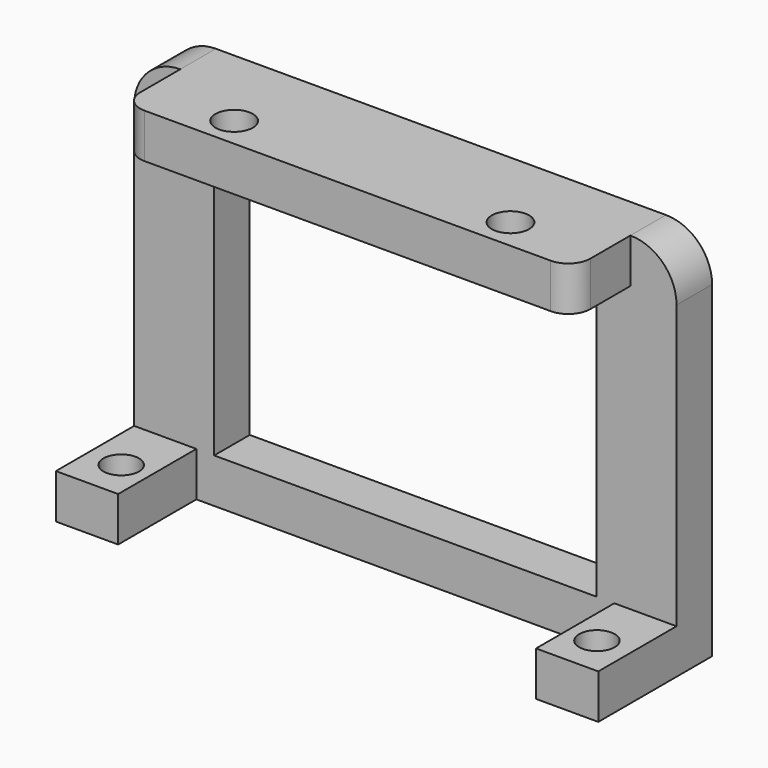
from build123d import *

# Parameters (mm, degrees)
EXTRUDE010_DEPTH = 5
SKETCH010_R      = 2
EXTRUDE009_DEPTH = 5
SKETCH012_R      = 2.1
EXTRUDE011_DEPTH = 5


with BuildPart() as extrude010:
    # Sketch011 (on Face6 of Extrude009) → Extrude010 (new body)
    with BuildSketch(Plane(origin=(0, 64.406042, 20.6), x_dir=(-1, 0, 0), z_dir=(0, 1, 0))):
        with BuildLine():
            Line((-18.188271, 0), (-18.188271, 36.810456))
            ThreePointArc((-12.998727, 42), (-16.668289, 40.480018), (-18.188271, 36.810456))
            Line((-12.998727, 42), (37.622185, 42))
            ThreePointArc((42.811729, 36.810456), (41.291746, 40.480018), (37.622185, 42))
            Line((42.811729, 0), (42.811729, 36.810456))
            Line((-18.188271, 0), (42.811729, 0))
        make_face()
        with BuildLine():
            Line((-9.188271, 5), (-9.188271, 33.276052))
            ThreePointArc((-5.464323, 37), (-8.097552, 35.909281), (-9.188271, 33.276052))
            Line((-5.464323, 37), (30.08778, 37))
            ThreePointArc((33.811729, 33.276052), (32.721009, 35.909281), (30.08778, 37))
            Line((33.811729, 33.276052), (33.811729, 5))
            Line((-9.188271, 5), (33.811729, 5))
        make_face(mode=Mode.SUBTRACT)
    extrude(amount=-EXTRUDE010_DEPTH)


with BuildPart() as extrude009:
    # Sketch010 → Extrude009 (new body)
    with BuildSketch(Plane.XY):
        Polygon((11.188271, 48.406042), (11.188271, 59.406042), (-35.811729, 59.406042), (-35.811729, 48.406042), (-42.811729, 48.406042), (-42.811729, 64.406042), (18.188271, 64.406042), (18.188271, 48.406042), align=None)
        with Locations((-39.061729, 52.906042)):
            Circle(SKETCH010_R, mode=Mode.SUBTRACT)
        with Locations((14.438271, 52.906042)):
            Circle(SKETCH010_R, mode=Mode.SUBTRACT)
    extrude(amount=EXTRUDE009_DEPTH)


with BuildPart() as extrude009_1:
    # Extrude009 placement: moved
    add(extrude009.part.moved(Location((0, 0, 20.6))))


with BuildPart() as pcb_holder_fusion:
    # Sketch012 (on Face3 of Extrude010) → Extrude011 (new body)
    with BuildSketch(Plane.XY.offset(62.6)):
        with BuildLine():
            Line((-37.622185, 64.406042), (-37.622185, 58.771772))
            ThreePointArc((-37.622185, 58.771772), (-36.898048, 57.023553), (-35.149829, 56.299416))
            Line((-35.149829, 56.299416), (10.526371, 56.299416))
            ThreePointArc((10.526371, 56.299416), (12.274591, 57.023553), (12.998727, 58.771772))
            Line((12.998727, 64.406042), (12.998727, 58.771772))
            Line((-37.622185, 64.406042), (12.998727, 64.406042))
        make_face()
        with Locations((-27.801273, 59.699416)):
            Circle(SKETCH012_R, mode=Mode.SUBTRACT)
        with Locations((3.198727, 59.799416)):
            Circle(SKETCH012_R, mode=Mode.SUBTRACT)
    extrude(amount=-EXTRUDE011_DEPTH)


with BuildPart() as pcb_holder_fusion_1:
    # Extrude011 placement: moved
    add(pcb_holder_fusion.part.moved(Location((0, -5, 0))))

    # Fusion012: union Extrude010, Extrude009
    add(extrude010.part)
    add(extrude009_1.part)


solid = pcb_holder_fusion_1.part
